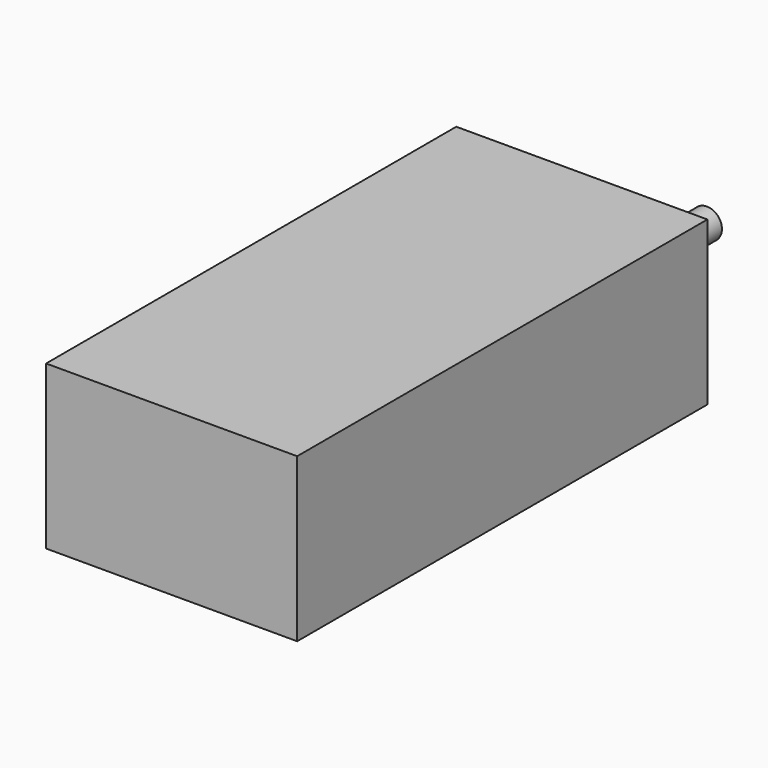
from build123d import *

# Parameters (mm, degrees)
F0_W     = 33.274
F0_H     = 21.59
F1_DEPTH = 67.945
F2_R     = 1.987086
F3_DEPTH = 6.35


with BuildPart() as f1:
    # F0 (on Front) → F1 (new body)
    with BuildSketch(Plane.XZ):
        with Locations((16.637, 10.795)):
            Rectangle(F0_W, F0_H)
    extrude(amount=F1_DEPTH)

    # F2 (on face) → F3 (join)
    with BuildSketch(Plane(origin=(0, 0, 0), x_dir=(-1, 0, 0), z_dir=(0, 1, 0))):
        with Locations((-28.139459, 16.866535)):
            Circle(F2_R)
    extrude(amount=F3_DEPTH)


solid = f1.part
